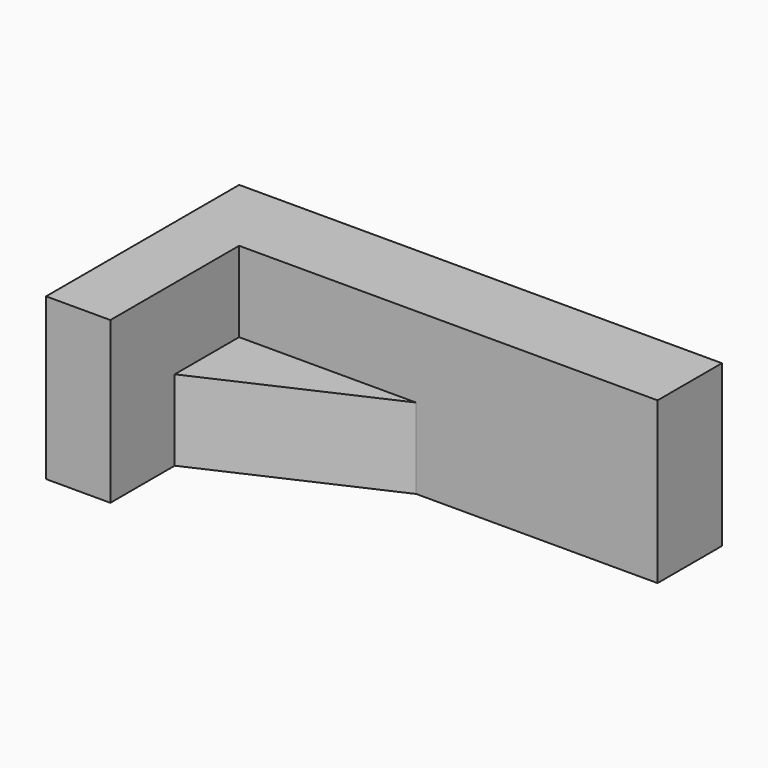
from build123d import *

# Parameters (mm, degrees)
F1_DEPTH = 50.8
F3_DEPTH = 25.4


with BuildPart() as f1:
    # F0 (on Top) → F1 (new body)
    with BuildSketch(Plane.XY):
        Polygon((0, 76.2), (0, 0), (20.289925, 0), (20.289925, 25.4), (20.289925, 50.8), (76.2, 50.8), (152.4, 50.8), (152.4, 76.2), align=None)
        Polygon((20.289925, 50.8), (20.289925, 25.4), (76.2, 50.8), align=None)
    extrude(amount=F1_DEPTH)

    # F2 (on face) → F3 (cut)
    with BuildSketch(Plane.XY.offset(50.8)):
        Polygon((20.289925, 50.8), (20.289925, 25.4), (76.2, 50.8), align=None)
    extrude(amount=-F3_DEPTH, mode=Mode.SUBTRACT)


solid = f1.part
